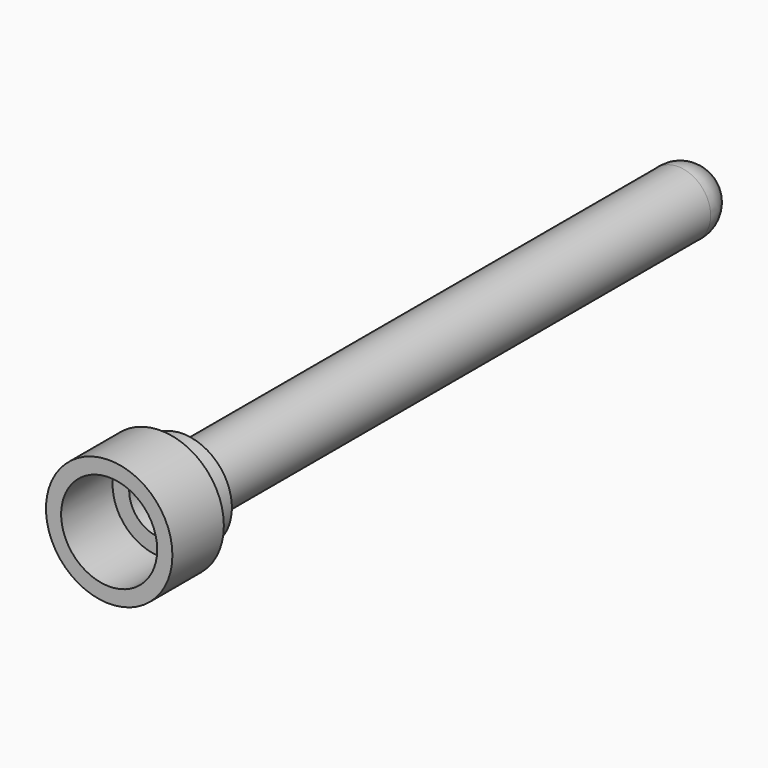
from build123d import *

# Parameters (mm, degrees)
F0_R     = 3.205
F0_R_2   = 2.435
F1_DEPTH = 3.26
F2_R     = 2.491032
F2_R_2   = 1.595
F3_DEPTH = 1.4
F4_R     = 1.651158
F5_DEPTH = 31.52


with BuildPart() as f1:
    # F0 (on Front) → F1 (new body)
    with BuildSketch(Plane.XZ):
        Circle(F0_R)
        Circle(F0_R_2, mode=Mode.SUBTRACT)
    extrude(amount=-F1_DEPTH)

    # F2 (on face) → F3 (join)
    with BuildSketch(Plane(origin=(0, 3.26, 0), x_dir=(-1, 0, 0), z_dir=(0, 1, 0))):
        Circle(F2_R)
        Circle(F2_R_2, mode=Mode.SUBTRACT)
    extrude(amount=F3_DEPTH)

    # F4 (on face) → F5 (join)
    with BuildSketch(Plane(origin=(0, 4.66, 0), x_dir=(-1, 0, 0), z_dir=(0, 1, 0))):
        Circle(F4_R)
    extrude(amount=F5_DEPTH)

    # F7 (on face) → F8 (revolve)
    with BuildSketch(Plane(origin=(0, 36.18, 0), x_dir=(-1, 0, 0), z_dir=(0, 1, 0))):
        with BuildLine():
            Line((0, 1.656466), (0, -1.656466))
            ThreePointArc((0, -1.656466), (1.656466, 0), (0, 1.656466))
        make_face()
    revolve(axis=Axis((0, 36.18, 0), (0, 0, -1)))


solid = f1.part
